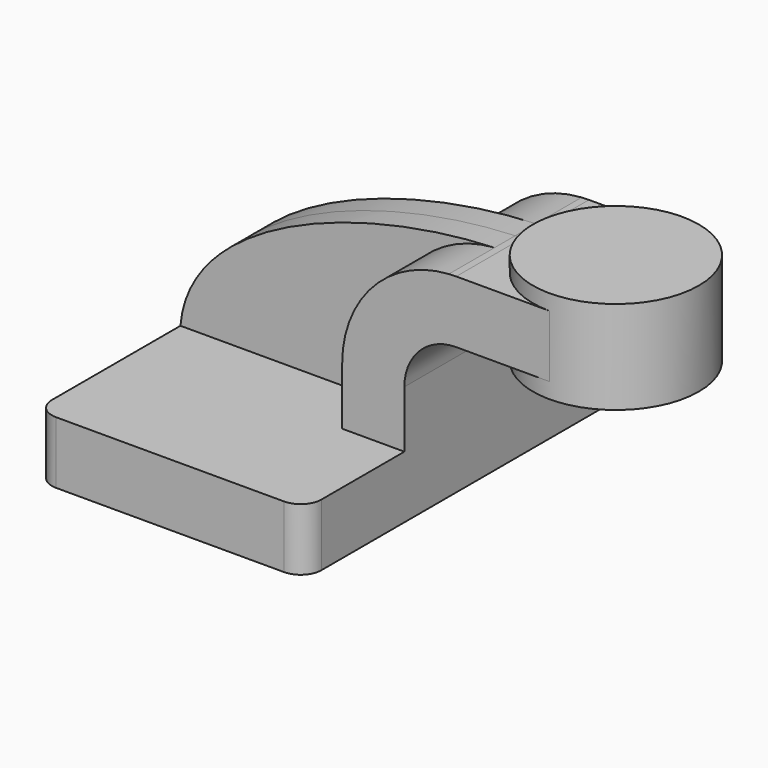
from build123d import *

# Parameters (mm, degrees)
F1_DEPTH = 63.5
F2_DEPTH = 25.4
F3_DEPTH = 7.9375
F0_W     = 25.4
F0_H     = 19.05
F4_DEPTH = 25.4
F6_R     = 6.35


with BuildPart() as f1:
    # F0 (on Front) → F1 (new body, symmetric)
    with BuildSketch(Plane.XZ):
        Polygon((-41.275, -9.525), (41.275, -9.525), (41.275, 9.525), (22.225, 9.525), (-41.275, 9.525), align=None)
    extrude(amount=F1_DEPTH, both=True)

    # F0 (on Front) → F2 (join, symmetric)
    with BuildSketch(Plane.XZ):
        with BuildLine():
            Line((22.225, 9.525), (41.275, 9.525))
            Line((41.275, 9.525), (41.275, 27.0002))
            ThreePointArc((41.275, 27.0002), (45.9246798487, 38.2255201513), (57.15, 42.8752))
            Line((57.15, 42.8752), (60.325, 42.8752))
            Line((60.325, 42.8752), (60.325, 61.9252))
            Line((60.325, 61.9252), (57.15, 61.9252))
            add(Edge.make_bspline(
                [(54.9104785197, 61.8533227947), (55.6599311663, 61.8827305791), (56.4065455523, 61.9066982117), (57.15, 61.9252)],
                knots=[109.5628960552, 109.5628960552, 109.5628960552, 109.5628960552, 111.5045361635, 111.5045361635, 111.5045361635, 111.5045361635], degree=3))
            ThreePointArc((54.9104785197, 61.8533227947), (31.67480704, 50.8909967354), (22.225, 27.0002))
            Line((22.225, 27.0002), (22.225, 9.525))
        make_face()
    extrude(amount=F2_DEPTH, both=True)

    # F0 (on Front) → F3 (join, symmetric)
    with BuildSketch(Plane.XZ):
        with BuildLine():
            add(Edge.make_bspline(
                [(-41.275, 9.525), (-38.7071358638, 41.2123762099), (12.620353756, 60.1938999086), (54.9104785197, 61.8533227947)],
                knots=[0, 0, 0, 0, 109.5628960552, 109.5628960552, 109.5628960552, 109.5628960552], degree=3))
            Line((-41.275, 9.525), (22.225, 9.525))
            Line((22.225, 9.525), (22.225, 27.0002))
            ThreePointArc((22.225, 27.0002), (31.67480704, 50.8909967354), (54.9104785197, 61.8533227947))
        make_face()
    extrude(amount=F3_DEPTH, both=True)

    # F0 (on Front) → F4 (join, symmetric)
    with BuildSketch(Plane.XZ):
        with Locations((73.025, 52.4002)):
            Rectangle(F0_W, F0_H)
    extrude(amount=F4_DEPTH, both=True)

    # F0 (on Front) → F5 (revolve)
    with BuildSketch(Plane.XZ):
        Polygon((85.725, 61.9252), (85.725, 42.8752), (85.725, 38.1), (111.125, 38.1), (111.125, 66.675), (85.725, 66.675), align=None)
    revolve(axis=Axis((85.725, 0, 52.3875), (0, 0, 1)))

    # F6
    f6_edges = [f1.edges().sort_by_distance(p)[0] for p in [
        (-41.275, -63.5, 0),
        (41.275, -63.5, 0),
        (41.275, 63.5, 0),
        (-41.275, 63.5, 0),
    ]]
    fillet(f6_edges, radius=F6_R)


solid = f1.part
